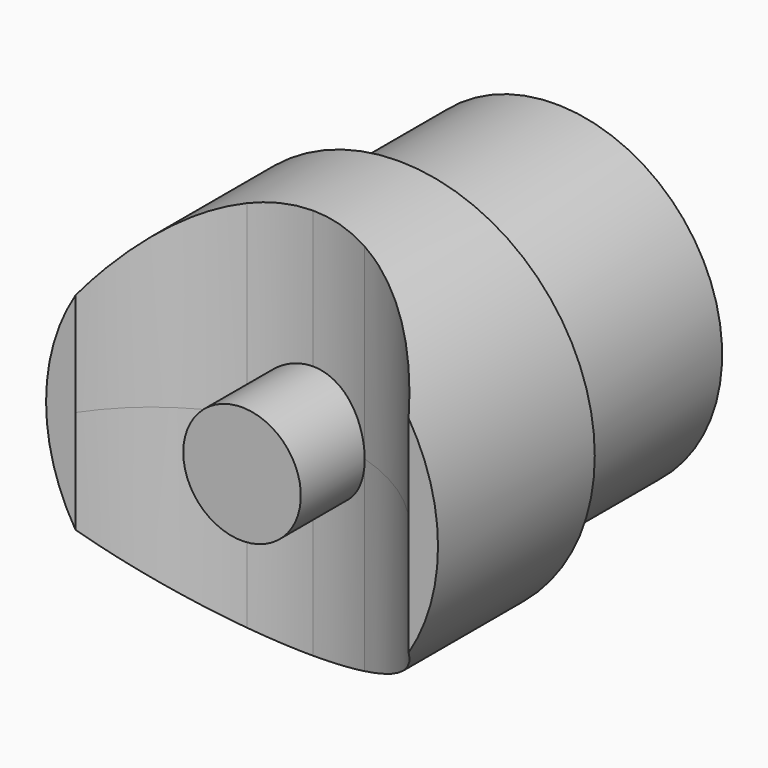
from build123d import *

# Parameters (mm, degrees)
F0_W          = 1.5
F0_H          = 10
F0_W_2        = 8.5
F2_DEPTH      = 25
F2_DEPTH_BACK = 25


with BuildPart() as f1:
    # F0 (on Top) → F1 (revolve)
    with BuildSketch(Plane.XY):
        with BuildLine():
            Line((-10, 10), (-18.5, 10))
            Line((-18.5, 10), (-18.5, 0))
            ThreePointArc((-18.5, 0), (-16.099974277, 2.509062325), (-13, 4.0729282733))
            Line((-13, 4.0729282733), (-13, 4.5217803813))
            Line((-13, 4.5217803813), (-10, 4.5217803813))
            Line((-10, 4.5217803813), (-10, 10))
        make_face()
        with Locations((-19.25, 5)):
            Rectangle(F0_W, F0_H)
        with Locations((-14.25, 15)):
            Rectangle(F0_W_2, F0_H)
        with BuildLine():
            ThreePointArc((-13, 4.0729282733), (-11.516696098, 4.4089463041), (-10, 4.5217803813))
            Line((-10, 4.5217803813), (-13, 4.5217803813))
            Line((-13, 4.5217803813), (-13, 4.0729282733))
        make_face()
        with BuildLine():
            Line((-10, 0), (-10, 4.5217803813))
            ThreePointArc((-10, 4.5217803813), (-11.516696098, 4.4089463041), (-13, 4.0729282733))
            Line((-13, 4.0729282733), (-13, 0))
            Line((-13, 0), (-10, 0))
        make_face()
        with BuildLine():
            ThreePointArc((-13, 4.0729282733), (-16.099974277, 2.509062325), (-18.5, 0))
            Line((-18.5, 0), (-13, 0))
            Line((-13, 0), (-13, 4.0729282733))
        make_face()
    revolve(axis=Axis((-10, 10, 0), (0, -1, 0)))

    # F0 (on Top) → F2 (cut, two sides)
    with BuildSketch(Plane.XY) as f2_sk:
        with BuildLine():
            ThreePointArc((-13, 4.0729282733), (-16.099974277, 2.509062325), (-18.5, 0))
            Line((-18.5, 0), (-13, 0))
            Line((-13, 0), (-13, 4.0729282733))
        make_face()
        with BuildLine():
            Line((-7, 0), (-1.5, 0))
            ThreePointArc((-1.5, 0), (-3.900025723, 2.509062325), (-7, 4.0729282733))
            Line((-7, 4.0729282733), (-7, 0))
        make_face()
        with BuildLine():
            Line((-10, 0), (-10, 4.5217803813))
            ThreePointArc((-10, 4.5217803813), (-11.516696098, 4.4089463041), (-13, 4.0729282733))
            Line((-13, 4.0729282733), (-13, 0))
            Line((-13, 0), (-10, 0))
        make_face()
        with BuildLine():
            ThreePointArc((-7, 4.0729282733), (-8.483303902, 4.4089463041), (-10, 4.5217803813))
            Line((-10, 4.5217803813), (-10, 0))
            Line((-10, 0), (-7, 0))
            Line((-7, 0), (-7, 4.0729282733))
        make_face()
    extrude(amount=F2_DEPTH, mode=Mode.SUBTRACT)
    extrude(f2_sk.sketch, amount=-F2_DEPTH_BACK, mode=Mode.SUBTRACT)

    # F0 (on Top) → F3 (revolve)
    with BuildSketch(Plane.XY):
        with BuildLine():
            Line((-10, 0), (-10, 4.5217803813))
            ThreePointArc((-10, 4.5217803813), (-11.516696098, 4.4089463041), (-13, 4.0729282733))
            Line((-13, 4.0729282733), (-13, 0))
            Line((-13, 0), (-10, 0))
        make_face()
        with BuildLine():
            ThreePointArc((-13, 4.0729282733), (-11.516696098, 4.4089463041), (-10, 4.5217803813))
            Line((-10, 4.5217803813), (-13, 4.5217803813))
            Line((-13, 4.5217803813), (-13, 4.0729282733))
        make_face()
    revolve(axis=Axis((-10, 10, 0), (0, -1, 0)))


solid = f1.part
